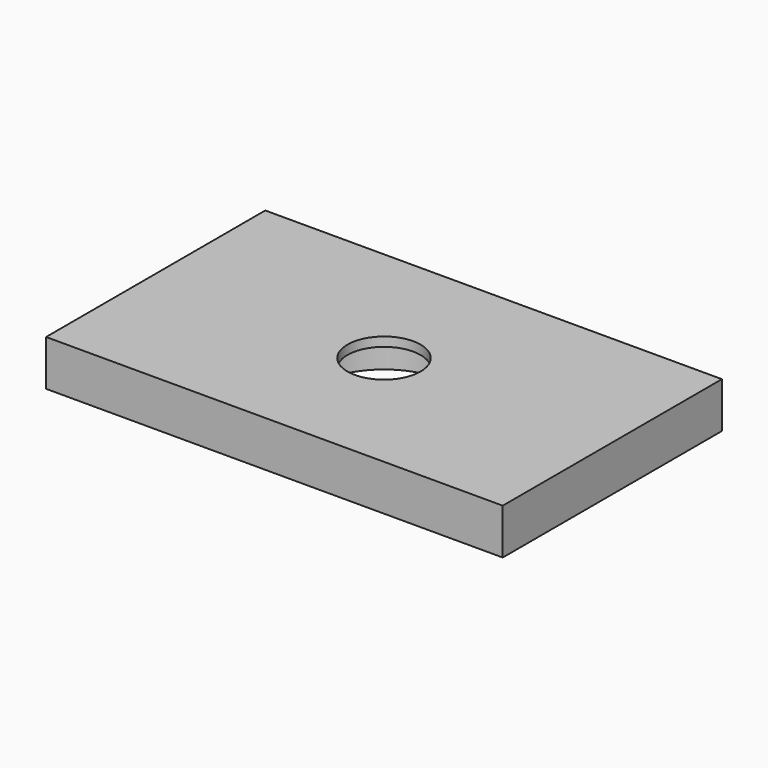
from build123d import *

# Parameters (mm, degrees)
SKETCH_W     = 50
SKETCH_H     = 30
SKETCH_R     = 7.5
PAD_DEPTH    = 4
SKETCH001_W  = 50
SKETCH001_H  = 30
SKETCH001_R  = 4
PAD001_DEPTH = 1


with BuildPart() as part:
    # Sketch → Pad (new body)
    with BuildSketch(Plane.XY):
        with Locations((25, 15)):
            Rectangle(SKETCH_W, SKETCH_H)
        with Locations((25, 15)):
            Circle(SKETCH_R, mode=Mode.SUBTRACT)
    extrude(amount=PAD_DEPTH)

    # Sketch001 (on Face7 of Pad) → Pad001 (join)
    with BuildSketch(Plane.XY.offset(4)):
        with Locations((25, 15)):
            Rectangle(SKETCH001_W, SKETCH001_H)
        with Locations((25, 15)):
            Circle(SKETCH001_R, mode=Mode.SUBTRACT)
    extrude(amount=PAD001_DEPTH)


solid = part.part
